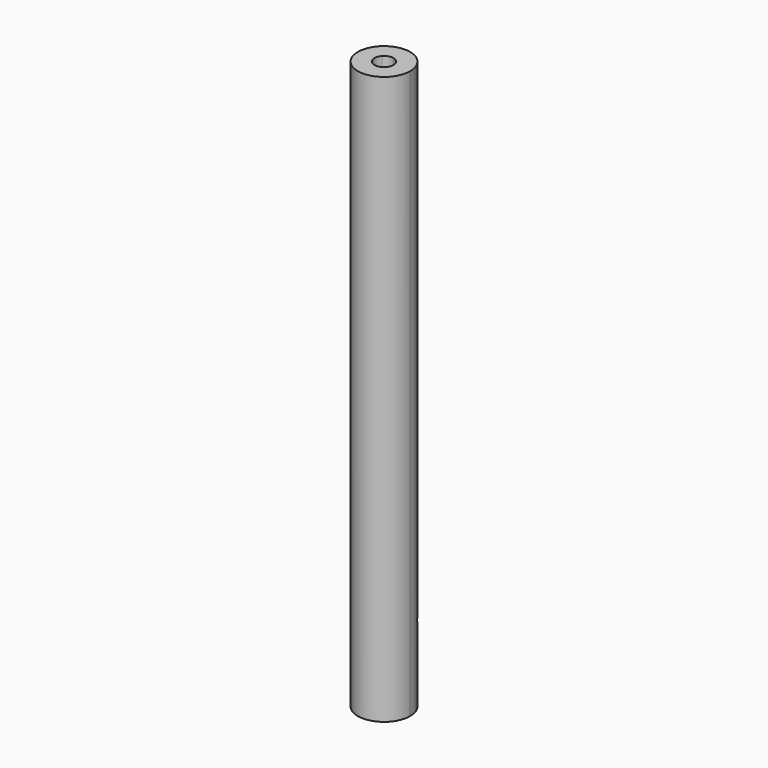
from build123d import *

# Parameters (mm, degrees)
F1_DEPTH = 15
F3_DEPTH = 0.7


with BuildPart() as f1:
    # F0 (on Top) → F1 (new body)
    with BuildSketch(Plane.XY):
        with BuildLine():
            ThreePointArc((-0.1892170156, 0.1633919246), (-0.0769557602, 0.2378609068), (0.0576512547, 0.2432618606))
            Line((0.0576512547, 0.2432618606), (0.1187294021, 0.5791915106))
            Line((0.1187294021, 0.5791915106), (-0.0786682724, 0.685500768))
            ThreePointArc((-0.0786682724, 0.685500768), (-0.3065994221, 0.6181397855), (-0.4981520055, 0.4774354191))
            Line((-0.4981520055, 0.4774354191), (-0.3374110871, 0.143368077))
            Line((-0.3374110871, 0.143368077), (-0.1892170156, 0.1633919246))
        make_face()
        with BuildLine():
            ThreePointArc((0.0576512547, 0.2432618606), (0.1961030516, 0.1550599663), (0.25, 0))
            ThreePointArc((0.25, 0), (-0.0871657791, -0.234312029), (-0.1892170156, 0.1633919246))
            Line((-0.1892170156, 0.1633919246), (-0.3374110871, 0.143368077))
            Line((-0.3374110871, 0.143368077), (-0.4981520055, 0.4774354191))
            ThreePointArc((-0.4981520055, 0.4774354191), (-0.2572694271, -0.6402440487), (0.69, 0))
            ThreePointArc((0.69, 0), (0.4592487844, 0.5149665562), (-0.0786682724, 0.685500768))
            Line((-0.0786682724, 0.685500768), (0.1187294021, 0.5791915106))
            Line((0.1187294021, 0.5791915106), (0.0576512547, 0.2432618606))
        make_face()
    extrude(amount=F1_DEPTH)

    # F2 (on Front) → F3 (cut)
    with BuildSketch(Plane.XZ):
        Polygon((0.1827530931, 1.6993293346), (0.5955339908, 2.0153646515), (0.4225228556, 2.5056028978), (-0.097184804, 2.4925514797), (-0.2453706668, 1.9942470135), align=None)
    extrude(amount=-F3_DEPTH, mode=Mode.SUBTRACT)


solid = f1.part
